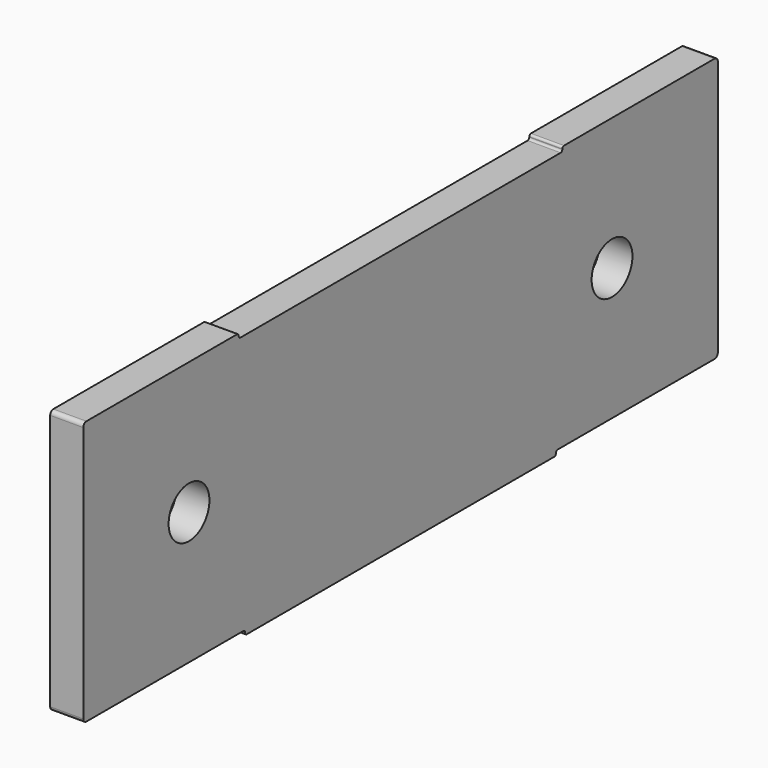
from build123d import *

# Parameters (mm, degrees)
F0_R     = 4.9022
F1_DEPTH = 3.175


with BuildPart() as f1:
    # F0 (on Right) → F1 (new body, symmetric)
    with BuildSketch(Plane.YZ):
        with BuildLine():
            Line((-39.2684, 25.4), (-75.438, 25.4))
            ThreePointArc((-75.438, 25.4), (-75.9768153673, 25.1768153673), (-76.2, 24.638))
            Line((-76.2, 24.638), (-76.2, -24.638))
            ThreePointArc((-76.2, -24.638), (-75.9768153673, -25.1768153673), (-75.438, -25.4))
            Line((-75.438, -25.4), (-37.7444, -25.4))
            ThreePointArc((-37.7444, -25.4), (-37.4570318041, -25.5190318041), (-37.338, -25.8064))
            Line((-37.338, -25.8064), (-37.338, -25.8826))
            ThreePointArc((-37.338, -25.8826), (-37.2189681959, -26.1699681959), (-36.9316, -26.289))
            Line((-36.9316, -26.289), (0, -26.289))
            Line((0, -26.289), (36.9316, -26.289))
            ThreePointArc((36.9316, -26.289), (37.2189681959, -26.1699681959), (37.338, -25.8826))
            Line((37.338, -25.8826), (37.338, -25.8064))
            ThreePointArc((37.338, -25.8064), (37.4570318041, -25.5190318041), (37.7444, -25.4))
            Line((37.7444, -25.4), (75.438, -25.4))
            ThreePointArc((75.438, -25.4), (75.9768153673, -25.1768153673), (76.2, -24.638))
            Line((76.2, -24.638), (76.2, 24.638))
            ThreePointArc((76.2, 24.638), (75.9768153673, 25.1768153673), (75.438, 25.4))
            Line((75.438, 25.4), (39.2684, 25.4))
            ThreePointArc((39.2684, 25.4), (38.9810318041, 25.2809681959), (38.862, 24.9936))
            Line((38.862, 24.9936), (38.862, 24.9174))
            ThreePointArc((38.862, 24.9174), (38.7429681959, 24.6300318041), (38.4556, 24.511))
            Line((38.4556, 24.511), (0, 24.511))
            Line((0, 24.511), (-38.4556, 24.511))
            ThreePointArc((-38.4556, 24.511), (-38.7429681959, 24.6300318041), (-38.862, 24.9174))
            Line((-38.862, 24.9174), (-38.862, 24.9936))
            ThreePointArc((-38.862, 24.9936), (-38.9810318041, 25.2809681959), (-39.2684, 25.4))
        make_face()
        with Locations((-50.8, 0)):
            Circle(F0_R, mode=Mode.SUBTRACT)
        with Locations((50.8, 0)):
            Circle(F0_R, mode=Mode.SUBTRACT)
    extrude(amount=F1_DEPTH, both=True)


solid = f1.part
